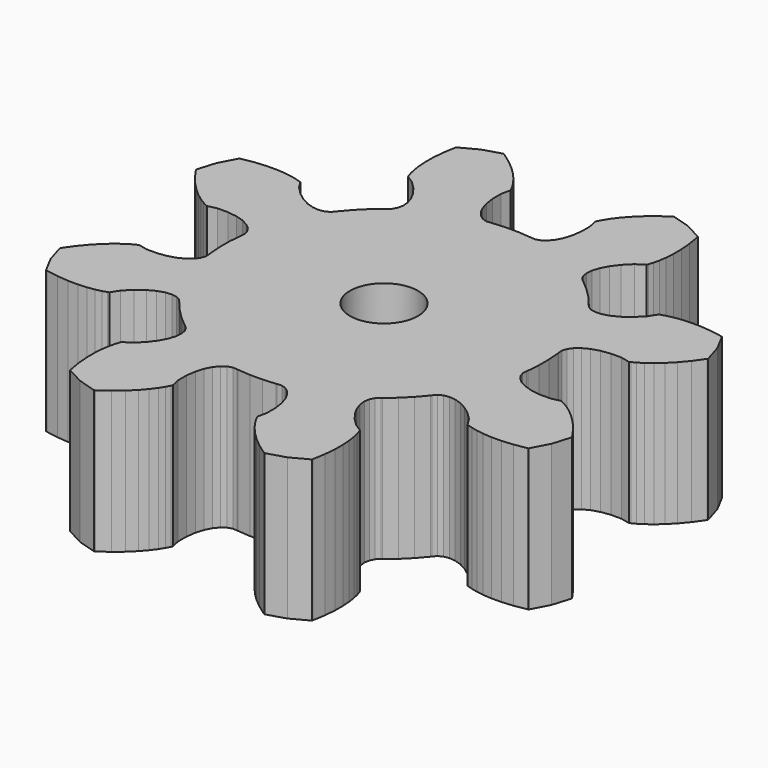
from build123d import *

# Parameters (mm, degrees)
F0_R     = 1.2
F1_DEPTH = 5


with BuildPart() as f1:
    # F0 (on Top) → F1 (new body)
    with BuildSketch(Plane.XY):
        Polygon((-8.464853, 4.26751), (-8.499269, 4.258893), (-8.8224, 3.654358), (-9.021383, 2.998399), (-9.00314, 2.967969), (-8.747335, 2.608592), (-8.493486, 2.305457), (-8.24866, 2.055827), (-8.019491, 1.856215), (-7.812106, 1.70244), (-7.632058, 1.589685), (-7.484266, 1.512563), (-7.431579, 1.490138), (-7.114604, 1.562986), (-6.740432, 1.562046), (-6.411686, 1.515445), (-6.132954, 1.430407), (-5.907959, 1.31457), (-5.739531, 1.1759), (-5.629578, 1.022594), (-5.579067, 0.862983), (-5.588021, 0.705438), (-5.59487, 0.662196), (-5.629578, 0.221187), (-5.629578, -0.221187), (-5.59487, -0.662196), (-5.588021, -0.705438), (-5.579067, -0.862983), (-5.629578, -1.022594), (-5.739531, -1.1759), (-5.907959, -1.31457), (-6.132954, -1.430407), (-6.411686, -1.515445), (-6.740432, -1.562046), (-7.114604, -1.562986), (-7.431579, -1.490138), (-7.484266, -1.512563), (-7.632058, -1.589685), (-7.812106, -1.70244), (-8.019491, -1.856215), (-8.24866, -2.055827), (-8.493486, -2.305457), (-8.747335, -2.608592), (-9.00314, -2.967969), (-9.021383, -2.998399), (-8.8224, -3.654358), (-8.499269, -4.258893), (-8.464853, -4.26751), (-8.029852, -4.340747), (-7.636005, -4.375597), (-7.286372, -4.378995), (-6.983179, -4.358095), (-6.7278, -4.320187), (-6.520757, -4.272603), (-6.361719, -4.222631), (-6.308606, -4.201234), (-6.135983, -3.925587), (-5.870738, -3.661672), (-5.605328, -3.462166), (-5.348103, -3.325203), (-5.107099, -3.248016), (-4.889948, -3.226974), (-4.703796, -3.25763), (-4.555217, -3.334775), (-4.450148, -3.452507), (-4.424414, -3.487927), (-4.137115, -3.82431), (-3.82431, -4.137115), (-3.487927, -4.424414), (-3.452507, -4.450148), (-3.334775, -4.555217), (-3.25763, -4.703796), (-3.226974, -4.889949), (-3.248016, -5.107099), (-3.325203, -5.348103), (-3.462166, -5.605328), (-3.661672, -5.870738), (-3.925587, -6.135983), (-4.201234, -6.308607), (-4.222631, -6.361719), (-4.272603, -6.520757), (-4.320187, -6.7278), (-4.358095, -6.983179), (-4.378994, -7.286372), (-4.375597, -7.636005), (-4.340747, -8.029852), (-4.26751, -8.464853), (-4.258893, -8.499269), (-3.654358, -8.8224), (-2.998399, -9.021383), (-2.967969, -9.00314), (-2.608591, -8.747335), (-2.305457, -8.493486), (-2.055827, -8.24866), (-1.856215, -8.019491), (-1.70244, -7.812106), (-1.589685, -7.632058), (-1.512563, -7.484266), (-1.490137, -7.431579), (-1.562986, -7.114604), (-1.562046, -6.740432), (-1.515445, -6.411686), (-1.430407, -6.132954), (-1.31457, -5.907959), (-1.1759, -5.739531), (-1.022594, -5.629578), (-0.862983, -5.579068), (-0.705438, -5.588021), (-0.662196, -5.59487), (-0.221187, -5.629578), (0.221187, -5.629578), (0.662196, -5.59487), (0.705438, -5.588021), (0.862983, -5.579068), (1.022594, -5.629578), (1.1759, -5.739531), (1.31457, -5.907959), (1.430407, -6.132954), (1.515445, -6.411686), (1.562046, -6.740432), (1.562986, -7.114604), (1.490138, -7.431579), (1.512563, -7.484266), (1.589685, -7.632058), (1.70244, -7.812106), (1.856215, -8.019491), (2.055827, -8.24866), (2.305457, -8.493486), (2.608592, -8.747335), (2.967969, -9.00314), (2.998399, -9.021383), (3.654358, -8.8224), (4.258893, -8.499269), (4.26751, -8.464853), (4.340747, -8.029852), (4.375597, -7.636005), (4.378995, -7.286372), (4.358095, -6.983179), (4.320187, -6.7278), (4.272603, -6.520757), (4.222631, -6.361719), (4.201234, -6.308607), (3.925587, -6.135983), (3.661672, -5.870738), (3.462166, -5.605328), (3.325203, -5.348103), (3.248016, -5.107099), (3.226974, -4.889949), (3.25763, -4.703796), (3.334775, -4.555217), (3.452507, -4.450148), (3.487927, -4.424414), (3.82431, -4.137115), (4.137115, -3.82431), (4.424414, -3.487927), (4.450148, -3.452507), (4.555217, -3.334775), (4.703796, -3.25763), (4.889949, -3.226974), (5.107099, -3.248016), (5.348103, -3.325203), (5.605328, -3.462166), (5.870738, -3.661672), (6.135983, -3.925587), (6.308607, -4.201234), (6.361719, -4.222631), (6.520757, -4.272603), (6.7278, -4.320187), (6.983179, -4.358095), (7.286373, -4.378995), (7.636006, -4.375597), (8.029852, -4.340747), (8.464853, -4.26751), (8.499269, -4.258893), (8.8224, -3.654358), (9.021383, -2.998399), (9.00314, -2.967969), (8.747335, -2.608592), (8.493486, -2.305457), (8.24866, -2.055827), (8.019491, -1.856215), (7.812106, -1.70244), (7.632058, -1.589685), (7.484266, -1.512563), (7.431579, -1.490138), (7.114604, -1.562986), (6.740432, -1.562046), (6.411687, -1.515445), (6.132954, -1.430407), (5.907959, -1.31457), (5.739531, -1.1759), (5.629578, -1.022594), (5.579068, -0.862983), (5.588021, -0.705438), (5.59487, -0.662196), (5.629578, -0.221187), (5.629578, 0.221187), (5.59487, 0.662196), (5.588021, 0.705438), (5.579068, 0.862983), (5.629578, 1.022594), (5.739531, 1.1759), (5.907959, 1.31457), (6.132954, 1.430407), (6.411687, 1.515445), (6.740432, 1.562046), (7.114604, 1.562986), (7.431579, 1.490138), (7.484266, 1.512563), (7.632058, 1.589685), (7.812106, 1.70244), (8.019491, 1.856215), (8.24866, 2.055827), (8.493486, 2.305457), (8.747335, 2.608592), (9.00314, 2.967969), (9.021383, 2.998399), (8.8224, 3.654358), (8.499269, 4.258893), (8.464853, 4.26751), (8.029852, 4.340747), (7.636006, 4.375597), (7.286373, 4.378995), (6.983179, 4.358095), (6.7278, 4.320187), (6.520757, 4.272603), (6.361719, 4.222631), (6.308607, 4.201234), (6.135983, 3.925587), (5.870738, 3.661672), (5.605328, 3.462166), (5.348103, 3.325203), (5.107099, 3.248016), (4.889949, 3.226974), (4.703796, 3.25763), (4.555217, 3.334775), (4.450148, 3.452507), (4.424414, 3.487927), (4.137115, 3.82431), (3.82431, 4.137115), (3.487927, 4.424414), (3.452507, 4.450148), (3.334775, 4.555217), (3.25763, 4.703796), (3.226974, 4.889949), (3.248016, 5.107099), (3.325203, 5.348103), (3.462166, 5.605328), (3.661672, 5.870738), (3.925587, 6.135983), (4.201234, 6.308607), (4.222631, 6.361719), (4.272603, 6.520757), (4.320187, 6.7278), (4.358095, 6.983179), (4.378995, 7.286372), (4.375597, 7.636005), (4.340747, 8.029852), (4.26751, 8.464853), (4.258893, 8.499269), (3.654358, 8.8224), (2.998399, 9.021383), (2.967969, 9.00314), (2.608592, 8.747335), (2.305457, 8.493486), (2.055827, 8.24866), (1.856215, 8.019491), (1.70244, 7.812106), (1.589685, 7.632058), (1.512563, 7.484266), (1.490138, 7.431579), (1.562986, 7.114604), (1.562046, 6.740432), (1.515445, 6.411686), (1.430407, 6.132954), (1.31457, 5.907959), (1.1759, 5.739531), (1.022594, 5.629578), (0.862983, 5.579068), (0.705438, 5.588021), (0.662196, 5.59487), (0.221187, 5.629578), (-0.221187, 5.629578), (-0.662196, 5.59487), (-0.705438, 5.588021), (-0.862983, 5.579068), (-1.022594, 5.629578), (-1.1759, 5.739531), (-1.31457, 5.907959), (-1.430407, 6.132954), (-1.515445, 6.411686), (-1.562046, 6.740432), (-1.562986, 7.114604), (-1.490137, 7.431579), (-1.512563, 7.484266), (-1.589685, 7.632058), (-1.70244, 7.812106), (-1.856215, 8.019491), (-2.055827, 8.24866), (-2.305457, 8.493486), (-2.608591, 8.747335), (-2.967969, 9.00314), (-2.998399, 9.021383), (-3.654358, 8.8224), (-4.258893, 8.499269), (-4.26751, 8.464853), (-4.340747, 8.029852), (-4.375597, 7.636005), (-4.378994, 7.286372), (-4.358095, 6.983179), (-4.320187, 6.7278), (-4.272603, 6.520757), (-4.222631, 6.361719), (-4.201234, 6.308607), (-3.925587, 6.135983), (-3.661672, 5.870738), (-3.462166, 5.605328), (-3.325203, 5.348103), (-3.248016, 5.107099), (-3.226974, 4.889949), (-3.25763, 4.703796), (-3.334775, 4.555217), (-3.452507, 4.450148), (-3.487927, 4.424414), (-3.82431, 4.137115), (-4.137115, 3.82431), (-4.424414, 3.487927), (-4.450148, 3.452507), (-4.555217, 3.334775), (-4.703796, 3.25763), (-4.889948, 3.226974), (-5.107099, 3.248016), (-5.348103, 3.325203), (-5.605328, 3.462166), (-5.870738, 3.661672), (-6.135983, 3.925587), (-6.308606, 4.201234), (-6.361719, 4.222631), (-6.520757, 4.272603), (-6.7278, 4.320187), (-6.983179, 4.358095), (-7.286372, 4.378995), (-7.636005, 4.375597), (-8.029852, 4.340747), align=None)
        Circle(F0_R, mode=Mode.SUBTRACT)
    extrude(amount=F1_DEPTH)


solid = f1.part
